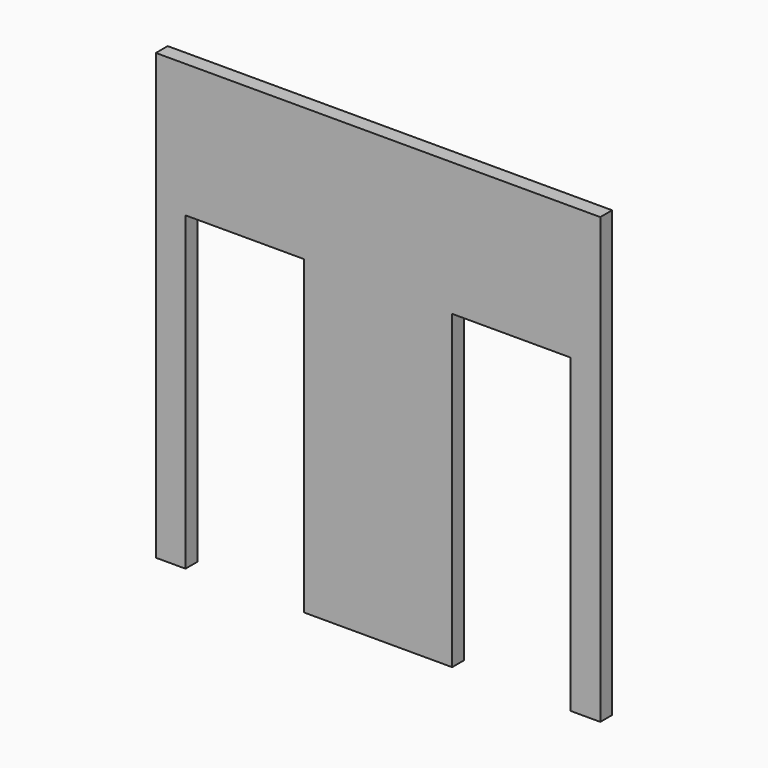
from build123d import *

# Parameters (mm, degrees)
F0_W     = 3000
F0_H     = 3000
F1_DEPTH = 50
F2_W     = 800
F2_H     = 2100
F3_DEPTH = 100.001


with BuildPart() as f1:
    # F0 (on Front) → F1 (new body, symmetric)
    with BuildSketch(Plane.XZ):
        with Locations((0, 1500)):
            Rectangle(F0_W, F0_H)
    extrude(amount=F1_DEPTH, both=True)

    # F2 (on face) → F3 (cut, through all)
    with BuildSketch(Plane.XZ.offset(50)):
        with Locations((900, 1050)):
            Rectangle(F2_W, F2_H)
        with Locations((-900, 1050)):
            Rectangle(F2_W, F2_H)
    extrude(amount=-F3_DEPTH, mode=Mode.SUBTRACT)


solid = f1.part
